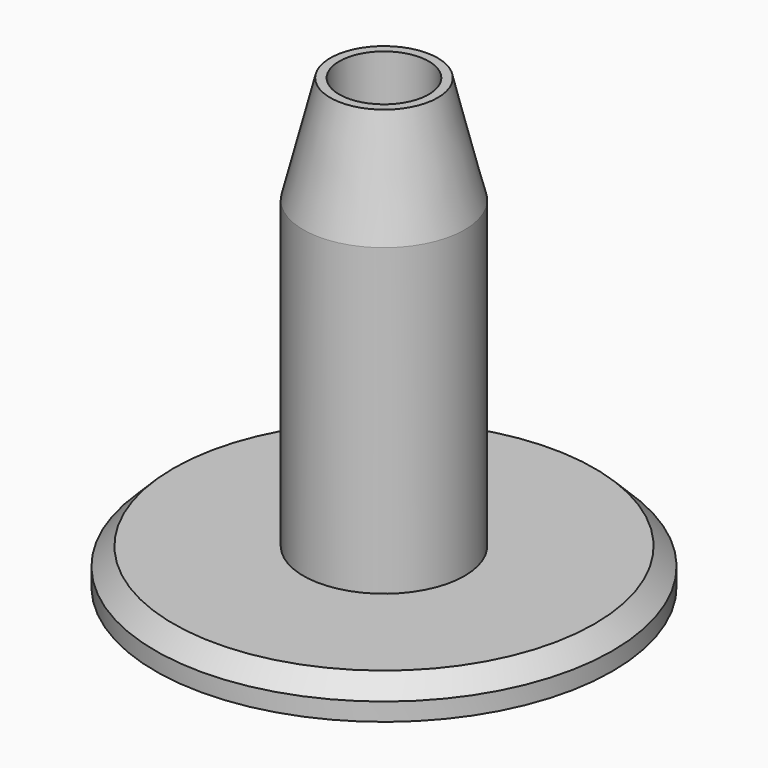
from build123d import *

# Parameters (mm, degrees)
F0_R     = 4.5
F1_DEPTH = 25
F0_R_2   = 12.75
F2_DEPTH = 2
F3_SIZE2 = 6
F3_SIZE  = 1.5
F4_D     = 5
F5_SIZE2 = 1
F5_SIZE  = 1


with BuildPart() as f1:
    # F0 (on Top) → F1 (new body)
    with BuildSketch(Plane.XY):
        Circle(F0_R)
    extrude(amount=F1_DEPTH)

    # F0 (on Top) → F2 (join)
    with BuildSketch(Plane.XY):
        Circle(F0_R_2)
        Circle(F0_R, mode=Mode.SUBTRACT)
    extrude(amount=F2_DEPTH)

    # F3
    f3_edges = [f1.edges().sort_by_distance(p)[0] for p in [
        (-4.5, 0, 25),
    ]]
    f3_side = f1.faces().sort_by_distance((0, 0, 25))[0]
    chamfer(f3_edges, length=F3_SIZE, length2=F3_SIZE2, reference=f3_side)

    # F4 (through all)
    with Locations(Plane(origin=(0, 0, 0), x_dir=(1, 0, 0), z_dir=(0, 0, -1))):
        with Locations((0, 0)):
            Hole(F4_D / 2)

    # F5
    f5_edges = [f1.edges().sort_by_distance(p)[0] for p in [
        (-12.75, 0, 2),
    ]]
    chamfer(f5_edges, length=F5_SIZE, length2=F5_SIZE2)


solid = f1.part
